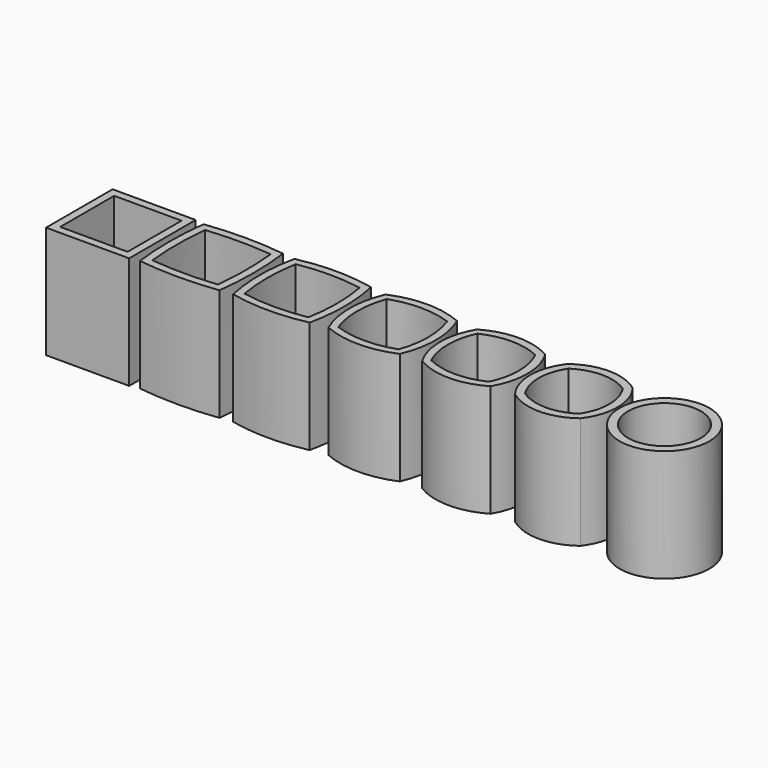
from build123d import *

# Parameters (mm, degrees)
F0_W     = 18.5
F0_H     = 18.5
F0_W_2   = 15
F0_H_2   = 15
F0_R     = 10
F0_R_2   = 8.1
F1_DEPTH = 25


with BuildPart() as f1:
    # F0 (on Top) → F1 (new body)
    with BuildSketch(Plane.XY):
        with BuildLine():
            ThreePointArc((-28.692486, -8.525819), (-20.166667, -9.445), (-11.640848, -8.525819))
            ThreePointArc((-11.640848, -8.525819), (-10.721667, 0), (-11.640848, 8.525819))
            ThreePointArc((-11.640848, 8.525819), (-20.166667, 9.445), (-28.692486, 8.525819))
            ThreePointArc((-28.692486, 8.525819), (-29.611667, 0), (-28.692486, -8.525819))
        make_face()
        with BuildLine():
            ThreePointArc((-13.054103, 7.112564), (-12.416667, 0), (-13.054103, -7.112564))
            ThreePointArc((-13.054103, -7.112564), (-20.166667, -7.75), (-27.279231, -7.112564))
            ThreePointArc((-27.279231, -7.112564), (-27.916667, 0), (-27.279231, 7.112564))
            ThreePointArc((-27.279231, 7.112564), (-20.166667, 7.75), (-13.054103, 7.112564))
        make_face(mode=Mode.SUBTRACT)
        with BuildLine():
            ThreePointArc((-49.184043, -8.85071), (-40.333333, -9.4125), (-31.482624, -8.85071))
            ThreePointArc((-31.482624, -8.85071), (-30.920833, 0), (-31.482624, 8.85071))
            ThreePointArc((-31.482624, 8.85071), (-40.333333, 9.4125), (-49.184043, 8.85071))
            ThreePointArc((-49.184043, 8.85071), (-49.745833, 0), (-49.184043, -8.85071))
        make_face()
        with BuildLine():
            ThreePointArc((-33.016757, 7.316576), (-32.633333, 0), (-33.016757, -7.316576))
            ThreePointArc((-33.016757, -7.316576), (-40.333333, -7.7), (-47.64991, -7.316576))
            ThreePointArc((-47.64991, -7.316576), (-48.033333, 0), (-47.64991, 7.316576))
            ThreePointArc((-47.64991, 7.316576), (-40.333333, 7.7), (-33.016757, 7.316576))
        make_face(mode=Mode.SUBTRACT)
        with Locations((-60.5, 0)):
            Rectangle(F0_W, F0_H)
        with Locations((-60.5, 0)):
            Rectangle(F0_W_2, F0_H_2, mode=Mode.SUBTRACT)
        with BuildLine():
            ThreePointArc((-7.951426, -7.951426), (0, -9.6), (7.951426, -7.951426))
            ThreePointArc((7.951426, -7.951426), (9.6, 0), (7.951426, 7.951426))
            ThreePointArc((7.951426, 7.951426), (0, 9.6), (-7.951426, 7.951426))
            ThreePointArc((-7.951426, 7.951426), (-9.6, 0), (-7.951426, -7.951426))
        make_face()
        with BuildLine():
            ThreePointArc((6.732703, 6.732703), (7.9, 0), (6.732703, -6.732703))
            ThreePointArc((6.732703, -6.732703), (0, -7.9), (-6.732703, -6.732703))
            ThreePointArc((-6.732703, -6.732703), (-7.9, 0), (-6.732703, 6.732703))
            ThreePointArc((-6.732703, 6.732703), (0, 7.9), (6.732703, 6.732703))
        make_face(mode=Mode.SUBTRACT)
        with BuildLine():
            ThreePointArc((12.646852, -7.608549), (20.254167, -9.68072), (27.861481, -7.608549))
            ThreePointArc((27.861481, -7.608549), (29.934167, -0.00036), (27.861481, 7.607829))
            ThreePointArc((27.861481, 7.607829), (20.254167, 9.68), (12.646852, 7.607829))
            ThreePointArc((12.646852, 7.607829), (10.574167, -0.00036), (12.646852, -7.608549))
        make_face()
        with BuildLine():
            ThreePointArc((26.604598, 6.438713), (28.056667, 0.000269), (26.604598, -6.438175))
            ThreePointArc((26.604598, -6.438175), (20.166667, -7.89), (13.728736, -6.438175))
            ThreePointArc((13.728736, -6.438175), (12.276667, 0.000269), (13.728736, 6.438713))
            ThreePointArc((13.728736, 6.438713), (20.166667, 7.890538), (26.604598, 6.438713))
        make_face(mode=Mode.SUBTRACT)
        with BuildLine():
            ThreePointArc((33.059304, -7.274029), (40.333333, -9.73), (47.607363, -7.274029))
            ThreePointArc((47.607363, -7.274029), (50.063333, 0), (47.607363, 7.274029))
            ThreePointArc((47.607363, 7.274029), (40.333333, 9.73), (33.059304, 7.274029))
            ThreePointArc((33.059304, 7.274029), (30.603333, 0), (33.059304, -7.274029))
        make_face()
        with BuildLine():
            ThreePointArc((46.381411, 6.048077), (48.193333, 0), (46.381411, -6.048077))
            ThreePointArc((46.381411, -6.048077), (40.333333, -7.86), (34.285256, -6.048077))
            ThreePointArc((34.285256, -6.048077), (32.473333, 0), (34.285256, 6.048077))
            ThreePointArc((34.285256, 6.048077), (40.333333, 7.86), (46.381411, 6.048077))
        make_face(mode=Mode.SUBTRACT)
        with Locations((60.5, 0)):
            Circle(F0_R)
        with Locations((60.5, 0)):
            Circle(F0_R_2, mode=Mode.SUBTRACT)
    extrude(amount=F1_DEPTH)


solid = f1.part
